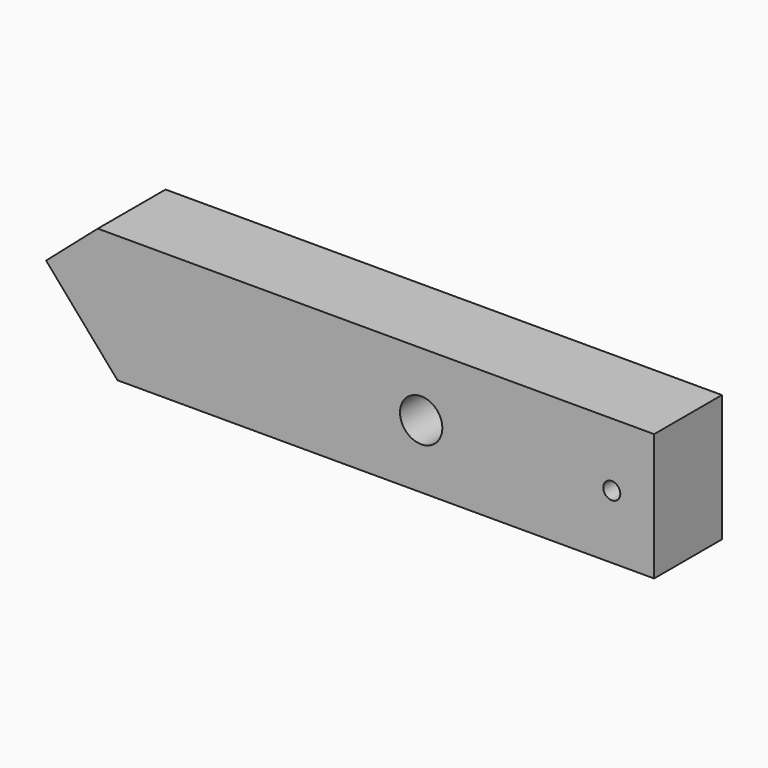
from build123d import *

# Parameters (mm, degrees)
F0_R     = 6.35
F1_DEPTH = 25.4
F3_D     = 5.1054


with BuildPart() as f1:
    # F0 (on Front) → F1 (new body)
    with BuildSketch(Plane.XZ):
        Polygon((89.5533425674, 21.9291050427), (-77.2441530914, 21.9291050427), (-92.7424574326, 8.4671050427), (-71.3416158504, -16.1708949573), (89.5533425674, -16.1708949573), align=None)
        with Locations((19.7033425674, 2.8791050427)):
            Circle(F0_R, mode=Mode.SUBTRACT)
    extrude(amount=F1_DEPTH)

    # F3 (through all)
    with Locations(Plane.XZ.offset(25.4)):
        with Locations((76.8533425674, 2.8791050427)):
            Hole(F3_D / 2)


solid = f1.part
